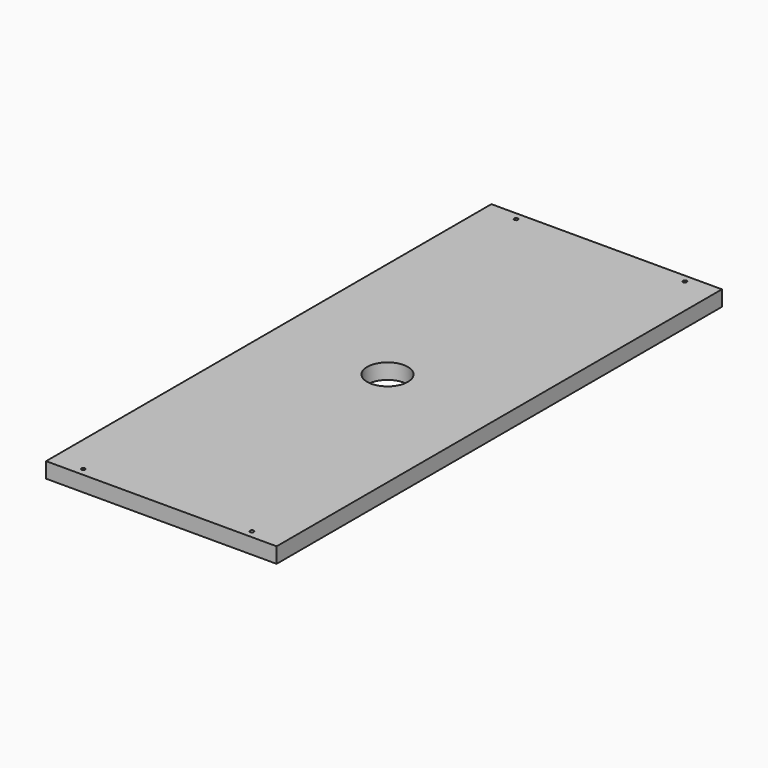
from build123d import *

# Parameters (mm, degrees)
F0_W     = 378.75718
F0_H     = 914.4
F1_DEPTH = 25.4
F3_DEPTH = 25.401
F4_R     = 33.437192
F5_DEPTH = 25.4


with BuildPart() as f1:
    # F0 (on Top) → F1 (new body)
    with BuildSketch(Plane.XY):
        with Locations((-4.136321, 70.025934)):
            Rectangle(F0_W, F0_H)
    extrude(amount=F1_DEPTH)

    # F2 (on face) → F3 (cut, through all)
    with BuildSketch(Plane.XY.offset(25.4)):
        with BuildLine():
            Line((-142.714911, 514.525934), (-142.714911, 511.350934))
            ThreePointArc((-142.714911, 511.350934), (-140.469847, 512.28087), (-139.539911, 514.525934))
            ThreePointArc((-139.539911, 514.525934), (-140.469847, 516.770998), (-142.714911, 517.700934))
            Line((-142.714911, 517.700934), (-142.714911, 514.525934))
        make_face()
        with BuildLine():
            ThreePointArc((-142.714911, 517.700934), (-145.889911, 514.525934), (-142.714911, 511.350934))
            Line((-142.714911, 511.350934), (-142.714911, 514.525934))
            Line((-142.714911, 514.525934), (-142.714911, 517.700934))
        make_face()
        with BuildLine():
            Line((134.442269, 514.525934), (134.442269, 511.350934))
            ThreePointArc((134.442269, 511.350934), (136.687333, 512.28087), (137.617269, 514.525934))
            ThreePointArc((137.617269, 514.525934), (136.687333, 516.770998), (134.442269, 517.700934))
            Line((134.442269, 517.700934), (134.442269, 514.525934))
        make_face()
        with BuildLine():
            ThreePointArc((134.442269, 517.700934), (131.267269, 514.525934), (134.442269, 511.350934))
            Line((134.442269, 511.350934), (134.442269, 514.525934))
            Line((134.442269, 514.525934), (134.442269, 517.700934))
        make_face()
        with BuildLine():
            ThreePointArc((-142.714911, -377.649066), (-140.469847, -376.71913), (-139.539911, -374.474066))
            ThreePointArc((-139.539911, -374.474066), (-144.959975, -372.229002), (-142.714911, -377.649066))
        make_face()
        with BuildLine():
            ThreePointArc((134.442269, -377.649066), (136.687333, -376.71913), (137.617269, -374.474066))
            ThreePointArc((137.617269, -374.474066), (136.687333, -372.229002), (134.442269, -371.299066))
            Line((134.442269, -371.299066), (134.442269, -374.474066))
            Line((134.442269, -374.474066), (134.442269, -377.649066))
        make_face()
        with BuildLine():
            Line((134.442269, -374.474066), (134.442269, -371.299066))
            ThreePointArc((134.442269, -371.299066), (131.267269, -374.474066), (134.442269, -377.649066))
            Line((134.442269, -377.649066), (134.442269, -374.474066))
        make_face()
    extrude(amount=-F3_DEPTH, mode=Mode.SUBTRACT)

    # F4 (on face) → F5 (cut)
    with BuildSketch(Plane.XY.offset(25.4)):
        with Locations((-2.0491, 74.617796)):
            Circle(F4_R)
    extrude(amount=-F5_DEPTH, mode=Mode.SUBTRACT)


solid = f1.part
